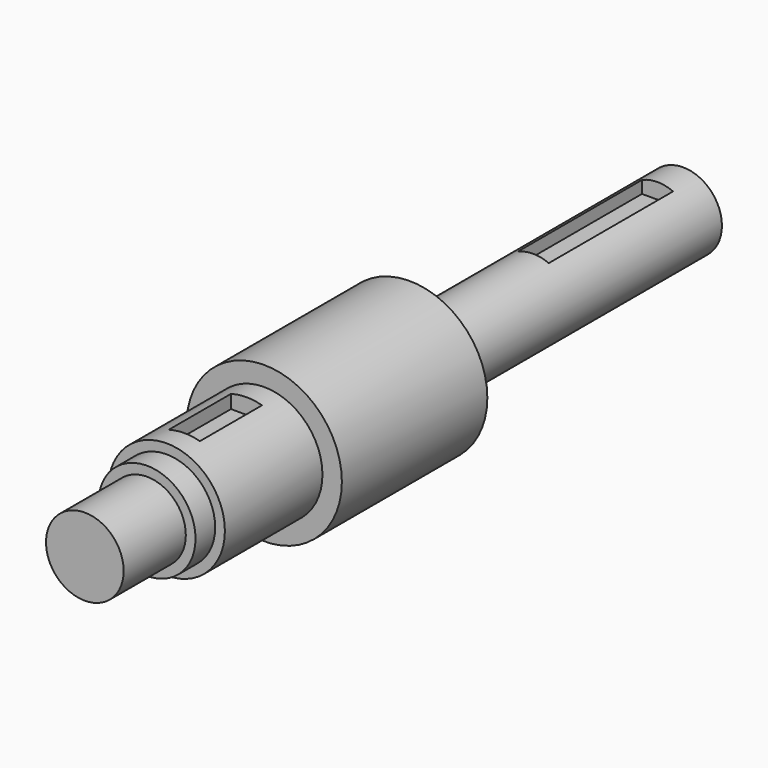
from build123d import *

# Parameters (mm, degrees)
F0_R      = 10
F1_DEPTH  = 88
F2_R      = 20
F3_DEPTH  = 46.825
F4_R      = 15
F5_DEPTH  = 31.4
F6_R      = 12.5
F7_DEPTH  = 6.325
F8_R      = 10
F9_DEPTH  = 20
F11_W     = 4
F11_H     = 40
F11_H_2   = 20
F12_DEPTH = 4
F14_W     = 4
F14_H     = 20
F15_DEPTH = 4


with BuildPart() as f1:
    # F0 (on Front) → F1 (new body)
    with BuildSketch(Plane.XZ):
        Circle(F0_R)
    extrude(amount=F1_DEPTH)

    # F2 (on face) → F3 (join)
    with BuildSketch(Plane.XZ.offset(88)):
        Circle(F2_R)
    extrude(amount=F3_DEPTH)

    # F4 (on face) → F5 (join)
    with BuildSketch(Plane.XZ.offset(134.825)):
        Circle(F4_R)
    extrude(amount=F5_DEPTH)

    # F6 (on face) → F7 (join)
    with BuildSketch(Plane.XZ.offset(166.225)):
        Circle(F6_R)
    extrude(amount=F7_DEPTH)

    # F8 (on face) → F9 (join)
    with BuildSketch(Plane.XZ.offset(172.55)):
        Circle(F8_R)
    extrude(amount=F9_DEPTH)

    # F11 (on offset) → F12 (cut)
    with BuildSketch(Plane.XY.offset(10)):
        with Locations((2, -28.240694)):
            Rectangle(F11_W, F11_H)
        with Locations((-2, -28.240694)):
            Rectangle(F11_W, F11_H)
        with Locations((-2, -150.525)):
            Rectangle(F11_W, F11_H_2)
        with Locations((2, -150.525)):
            Rectangle(F11_W, F11_H_2)
    extrude(amount=-F12_DEPTH, mode=Mode.SUBTRACT)

    # F14 (on offset) → F15 (cut)
    with BuildSketch(Plane.XY.offset(15)):
        with Locations((-2, -150.525)):
            Rectangle(F14_W, F14_H)
        with Locations((2, -150.525)):
            Rectangle(F14_W, F14_H)
    extrude(amount=-F15_DEPTH, mode=Mode.SUBTRACT)


solid = f1.part
